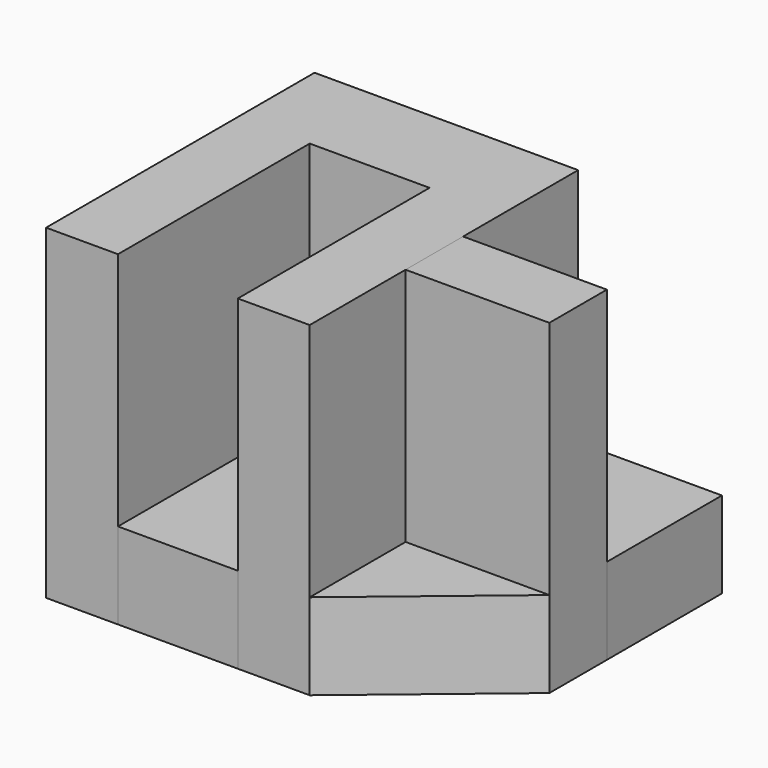
from build123d import *

# Parameters (mm, degrees)
F0_W     = 25
F0_H     = 50
F1_DEPTH = 18
F0_W_2   = 15
F0_H_2   = 20
F2_DEPTH = 68
F4_W     = 30
F4_H     = 15
F5_DEPTH = 68


with BuildPart() as f1:
    # F0 (on Top) → F1 (new body)
    with BuildSketch(Plane.XY):
        with Locations((27.5, 25)):
            Rectangle(F0_W, F0_H)
        Polygon((55, 25), (55, 0), (85, 25), align=None)
        Polygon((85, 70), (55, 70), (55, 40), (85, 40), (85, 55), align=None)
    extrude(amount=F1_DEPTH)


with BuildPart() as f2:
    # F0 (on Top) → F2 (new body)
    with BuildSketch(Plane.XY):
        Polygon((15, 70), (15, 50), (40, 50), (40, 0), (55, 0), (55, 25), (55, 40), (55, 70), align=None)
        with Locations((7.5, 25)):
            Rectangle(F0_W_2, F0_H)
        with Locations((7.5, 60)):
            Rectangle(F0_W_2, F0_H_2)
    extrude(amount=F2_DEPTH)


with BuildPart() as f5:
    # F4 (on face) → F5 (new body)
    with BuildSketch(Plane.XY):
        with Locations((70, 32.5)):
            Rectangle(F4_W, F4_H)
    extrude(amount=F5_DEPTH)


solid = Compound([f1.part, f2.part, f5.part])
